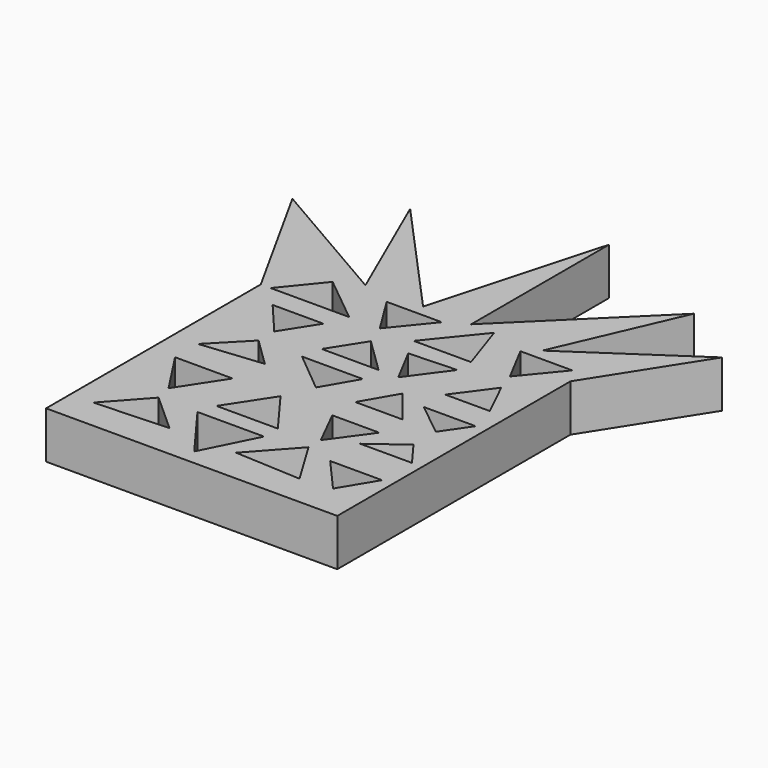
from build123d import *

# Parameters (mm, degrees)
F1_DEPTH = 7


with BuildPart() as f1:
    # F0 (on Top) → F1 (new body)
    with BuildSketch(Plane.XY):
        Polygon((-34.109668, 24.133805), (-34.109668, -15.859125), (9.286875, -15.859125), (9.286875, 27.439939), (9.286875, 27.574874), (19.288125, 43.291125), (1.894246, 31.575374), (9.858374, 49.863376), (-8.715375, 31.575374), (-8.715375, 57.292875), (-15.873495, 31.575374), (-32.432627, 49.863376), (-24.468496, 31.575374), (-44.719875, 43.291125), align=None)
        Polygon((-19.780688, -10.786669), (-30.718125, -11.287125), (-25.574625, -5.572125), align=None, mode=Mode.SUBTRACT)
        Polygon((-13.858875, -13.573125), (-19.780688, -5.572125), (-9.858374, -5.572125), align=None, mode=Mode.SUBTRACT)
        Polygon((-26.146125, -3.000375), (-30.432375, 3.571875), (-21.859875, 3.571875), align=None, mode=Mode.SUBTRACT)
        Polygon((-9.858374, -3.000375), (-19.002376, -3.000375), (-14.716125, 3.571875), align=None, mode=Mode.SUBTRACT)
        Polygon((-21.233711, 8.792836), (-30.432375, 7.858125), (-25.479374, 12.934948), align=None, mode=Mode.SUBTRACT)
        Polygon((-12.873181, 7.858125), (-19.002376, 12.934948), (-9.936156, 12.934948), align=None, mode=Mode.SUBTRACT)
        Polygon((-25.479374, 15.859125), (-29.804411, 20.95796), (-22.234662, 20.95796), align=None, mode=Mode.SUBTRACT)
        Polygon((-9.936156, 15.859125), (-18.407172, 15.859125), (-15.162459, 20.95796), align=None, mode=Mode.SUBTRACT)
        Polygon((0, -11.287125), (-9.858374, -10.786669), (-4.143375, -4.43667), align=None, mode=Mode.SUBTRACT)
        Polygon((-4.143375, -2.143125), (-7.000875, 3.571875), (0, 3.571875), align=None, mode=Mode.SUBTRACT)
        Polygon((7.732536, -5.572125), (4.593785, -10.786669), (0, -5.572125), align=None, mode=Mode.SUBTRACT)
        Polygon((7.732536, 0), (0, 0), (5.000625, 3.696115), align=None, mode=Mode.SUBTRACT)
        Polygon((0, 7.858125), (-7.000875, 7.858125), (-4.06385, 12.934948), align=None, mode=Mode.SUBTRACT)
        Polygon((-7.000875, 15.859125), (-9.858374, 21.288376), (-2.783154, 21.583176), align=None, mode=Mode.SUBTRACT)
        Polygon((5.000625, 7.858125), (0, 11.858624), (7.732536, 11.858624), align=None, mode=Mode.SUBTRACT)
        Polygon((6.643688, 15.859125), (0, 15.859125), (4.0005, 21.288376), align=None, mode=Mode.SUBTRACT)
        Polygon((-20.936942, 24.133805), (-32.638886, 24.133805), (-27.985641, 29.860875), align=None, mode=Mode.SUBTRACT)
        Polygon((-16.371781, 24.133805), (-19.928829, 29.860875), (-11.718535, 29.860875), align=None, mode=Mode.SUBTRACT)
        Polygon((-2.783154, 24.133805), (-11.332653, 24.133805), (-5.286376, 31.575374), align=None, mode=Mode.SUBTRACT)
        Polygon((3.02262, 24.133805), (0, 29.860875), (7.732536, 29.860875), align=None, mode=Mode.SUBTRACT)
    extrude(amount=F1_DEPTH)


solid = f1.part
